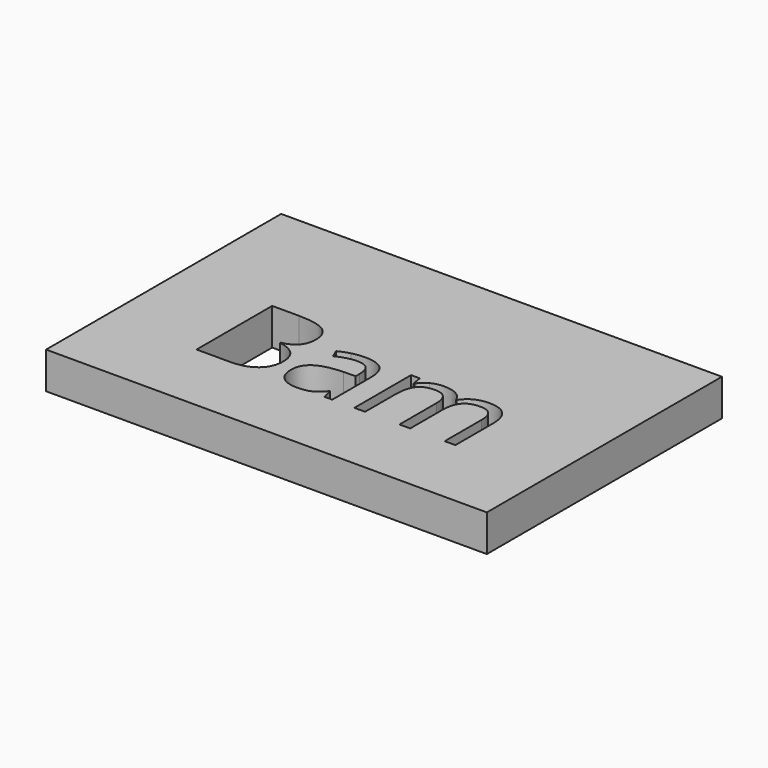
from build123d import *

# Parameters (mm, degrees)
F0_W     = 76.2
F0_H     = 50.8
F1_DEPTH = 6.35


with BuildPart() as f1:
    # F0 (on Top) → F1 (new body)
    with BuildSketch(Plane.XY):
        Rectangle(F0_W, F0_H)
        with BuildLine():
            Line((1.2140801556, -12.7), (-0.1628037906, -12.7))
            Line((-0.1628037906, -12.7), (-0.5311649502, -10.9547548942))
            Line((-0.5311649502, -10.9547548942), (-0.6205729987, -10.9547548942))
            add(Edge.make_bspline(
                [(-0.6205729987, -10.9547548942), (-1.5361114148, -12.1063305583), (-2.446285348, -12.5158194202)],
                knots=[0, 0, 0, 1, 1, 1], degree=2))
            add(Edge.make_bspline(
                [(-2.446285348, -12.5158194202), (-3.3564592813, -12.9253082821), (-4.7226142616, -12.9253082821)],
                knots=[0, 0, 0, 1, 1, 1], degree=2))
            add(Edge.make_bspline(
                [(-4.7226142616, -12.9253082821), (-6.5429621281, -12.9253082821), (-7.5765191682, -11.9847356124)],
                knots=[0, 0, 0, 1, 1, 1], degree=2))
            add(Edge.make_bspline(
                [(-7.5765191682, -11.9847356124), (-8.6100762083, -11.0441629427), (-8.6100762083, -9.3132231247)],
                knots=[0, 0, 0, 1, 1, 1], degree=2))
            add(Edge.make_bspline(
                [(-8.6100762083, -9.3132231247), (-8.6100762083, -5.6045772749), (-2.676958113, -5.425761178)],
                knots=[0, 0, 0, 1, 1, 1], degree=2))
            Line((-2.676958113, -5.425761178), (-0.599115067, -5.3578110612))
            Line((-0.599115067, -5.3578110612), (-0.599115067, -4.5960544884))
            add(Edge.make_bspline(
                [(-0.599115067, -4.5960544884), (-0.599115067, -3.1547967473), (-1.2178187623, -2.4681429352)],
                knots=[0, 0, 0, 1, 1, 1], degree=2))
            add(Edge.make_bspline(
                [(-1.2178187623, -2.4681429352), (-1.8365224576, -1.7814891231), (-3.2026774379, -1.7814891231)],
                knots=[0, 0, 0, 1, 1, 1], degree=2))
            add(Edge.make_bspline(
                [(-3.2026774379, -1.7814891231), (-4.7333432274, -1.7814891231), (-6.664557074, -2.7184854709)],
                knots=[0, 0, 0, 1, 1, 1], degree=2))
            Line((-6.664557074, -2.7184854709), (-7.236768584, -1.2986856615))
            add(Edge.make_bspline(
                [(-7.236768584, -1.2986856615), (-6.3319591337, -0.808729556), (-5.2536980694, -0.5297764448)],
                knots=[0, 0, 0, 1, 1, 1], degree=2))
            add(Edge.make_bspline(
                [(-5.2536980694, -0.5297764448), (-4.1754370051, -0.2508233337), (-3.0882351359, -0.2508233337)],
                knots=[0, 0, 0, 1, 1, 1], degree=2))
            add(Edge.make_bspline(
                [(-3.0882351359, -0.2508233337), (-0.8995261098, -0.2508233337), (0.1572770229, -1.2217947398)],
                knots=[0, 0, 0, 1, 1, 1], degree=2))
            add(Edge.make_bspline(
                [(0.1572770229, -1.2217947398), (1.2140801556, -2.192766146), (1.2140801556, -4.3385593088)],
                knots=[0, 0, 0, 1, 1, 1], degree=2))
            Line((1.2140801556, -4.3385593088), (1.2140801556, -12.7))
        make_face(mode=Mode.SUBTRACT)
        with BuildLine():
            Line((-22.246591758, -12.7), (-22.246591758, 3.6402149349))
            Line((-22.246591758, 3.6402149349), (-17.629560136, 3.6402149349))
            add(Edge.make_bspline(
                [(-17.629560136, 3.6402149349), (-14.3786834943, 3.6402149349), (-12.9249086265, 2.6674553678)],
                knots=[0, 0, 0, 1, 1, 1], degree=2))
            add(Edge.make_bspline(
                [(-12.9249086265, 2.6674553678), (-11.4711337587, 1.6946958006), (-11.4711337587, -0.404605177)],
                knots=[0, 0, 0, 1, 1, 1], degree=2))
            add(Edge.make_bspline(
                [(-11.4711337587, -0.404605177), (-11.4711337587, -1.8601682058), (-12.2811706777, -2.8043171974)],
                knots=[0, 0, 0, 1, 1, 1], degree=2))
            add(Edge.make_bspline(
                [(-12.2811706777, -2.8043171974), (-13.0912075966, -3.7484661891), (-14.6469076397, -4.0274193002)],
                knots=[0, 0, 0, 1, 1, 1], degree=2))
            Line((-14.6469076397, -4.0274193002), (-14.6469076397, -4.1382852803))
            add(Edge.make_bspline(
                [(-14.6469076397, -4.1382852803), (-10.9239565022, -4.7748705853), (-10.9239565022, -8.0507814805)],
                knots=[0, 0, 0, 1, 1, 1], degree=2))
            add(Edge.make_bspline(
                [(-10.9239565022, -8.0507814805), (-10.9239565022, -10.2394905066), (-12.4045537845, -11.4697452533)],
                knots=[0, 0, 0, 1, 1, 1], degree=2))
            add(Edge.make_bspline(
                [(-12.4045537845, -11.4697452533), (-13.8851510669, -12.7), (-16.5459345888, -12.7)],
                knots=[0, 0, 0, 1, 1, 1], degree=2))
            Line((-16.5459345888, -12.7), (-22.246591758, -12.7))
        make_face(mode=Mode.SUBTRACT)
        with BuildLine():
            Line((22.5003483308, -12.7), (20.6478135669, -12.7))
            Line((20.6478135669, -12.7), (20.6478135669, -4.731954722))
            add(Edge.make_bspline(
                [(20.6478135669, -4.731954722), (20.6478135669, -3.2656627274), (20.0219572278, -2.5343048911)],
                knots=[0, 0, 0, 1, 1, 1], degree=2))
            add(Edge.make_bspline(
                [(20.0219572278, -2.5343048911), (19.3961008886, -1.8029470548), (18.0764380935, -1.8029470548)],
                knots=[0, 0, 0, 1, 1, 1], degree=2))
            add(Edge.make_bspline(
                [(18.0764380935, -1.8029470548), (16.3454982755, -1.8029470548), (15.5175797468, -2.7971645535)],
                knots=[0, 0, 0, 1, 1, 1], degree=2))
            add(Edge.make_bspline(
                [(15.5175797468, -2.7971645535), (14.6896612181, -3.7913820523), (14.6896612181, -5.8584961325)],
                knots=[0, 0, 0, 1, 1, 1], degree=2))
            Line((14.6896612181, -5.8584961325), (14.6896612181, -12.7))
            Line((14.6896612181, -12.7), (12.8335501323, -12.7))
            Line((12.8335501323, -12.7), (12.8335501323, -4.731954722))
            add(Edge.make_bspline(
                [(12.8335501323, -4.731954722), (12.8335501323, -3.2656627274), (12.2076937931, -2.5343048911)],
                knots=[0, 0, 0, 1, 1, 1], degree=2))
            add(Edge.make_bspline(
                [(12.2076937931, -2.5343048911), (11.581837454, -1.8029470548), (10.251445693, -1.8029470548)],
                knots=[0, 0, 0, 1, 1, 1], degree=2))
            add(Edge.make_bspline(
                [(10.251445693, -1.8029470548), (8.5097769092, -1.8029470548), (7.6997399902, -2.8472330607)],
                knots=[0, 0, 0, 1, 1, 1], degree=2))
            add(Edge.make_bspline(
                [(7.6997399902, -2.8472330607), (6.8897030713, -3.8915190666), (6.8897030713, -6.2733494773)],
                knots=[0, 0, 0, 1, 1, 1], degree=2))
            Line((6.8897030713, -6.2733494773), (6.8897030713, -12.7))
            Line((6.8897030713, -12.7), (5.0335919854, -12.7))
            Line((5.0335919854, -12.7), (5.0335919854, -0.4510973622))
            Line((5.0335919854, -0.4510973622), (6.5427998433, -0.4510973622))
            Line((6.5427998433, -0.4510973622), (6.8432108861, -2.1283923511))
            Line((6.8432108861, -2.1283923511), (6.9326189345, -2.1283923511))
            add(Edge.make_bspline(
                [(6.9326189345, -2.1283923511), (7.4583382594, -1.2343118666), (8.4150043778, -0.7300504733)],
                knots=[0, 0, 0, 1, 1, 1], degree=2))
            add(Edge.make_bspline(
                [(8.4150043778, -0.7300504733), (9.3716704963, -0.2257890801), (10.5554330578, -0.2257890801)],
                knots=[0, 0, 0, 1, 1, 1], degree=2))
            add(Edge.make_bspline(
                [(10.5554330578, -0.2257890801), (13.427219574, -0.2257890801), (14.3105710927, -2.307208448)],
                knots=[0, 0, 0, 1, 1, 1], degree=2))
            Line((14.3105710927, -2.307208448), (14.3999791412, -2.307208448))
            add(Edge.make_bspline(
                [(14.3999791412, -2.307208448), (14.9471563977, -1.3451778467), (15.9860779207, -0.7854834634)],
                knots=[0, 0, 0, 1, 1, 1], degree=2))
            add(Edge.make_bspline(
                [(15.9860779207, -0.7854834634), (17.0249994437, -0.2257890801), (18.3553912046, -0.2257890801)],
                knots=[0, 0, 0, 1, 1, 1], degree=2))
            add(Edge.make_bspline(
                [(18.3553912046, -0.2257890801), (20.4332342506, -0.2257890801), (21.4667912907, -1.2933211786)],
                knots=[0, 0, 0, 1, 1, 1], degree=2))
            add(Edge.make_bspline(
                [(21.4667912907, -1.2933211786), (22.5003483308, -2.3608532771), (22.5003483308, -4.7104967904)],
                knots=[0, 0, 0, 1, 1, 1], degree=2))
            Line((22.5003483308, -4.7104967904), (22.5003483308, -12.7))
        make_face(mode=Mode.SUBTRACT)
    extrude(amount=F1_DEPTH)


solid = f1.part
